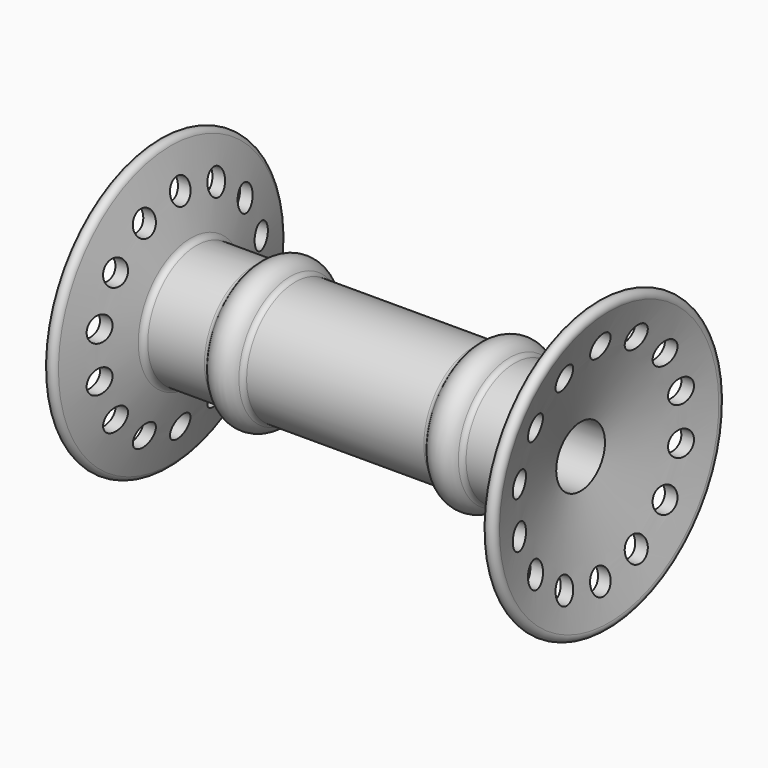
from build123d import *

# Parameters (mm, degrees)
F2_R     = 2
F3_DEPTH = 50


with BuildPart() as f1:
    # F0 (on Front) → F1 (revolve)
    with BuildSketch(Plane.XZ):
        with BuildLine():
            Line((-36.9318516526, 17.4823619098), (-32.2474668971, 0))
            Line((-32.2474668971, 0), (32.2474668971, 0))
            Line((32.2474668971, 0), (36.9318516526, 17.4823619098))
            ThreePointArc((36.9318516526, 17.4823619098), (36.2247448714, 18.7071067812), (35, 18))
            Line((35, 18), (31.7152593367, 5.7411809549))
            ThreePointArc((31.7152593367, 5.7411809549), (31.3580949394, 5.2066466597), (30.7493335104, 5))
            Line((30.7493335104, 5), (21.4641016151, 5))
            ThreePointArc((21.4641016151, 5), (20.9641016151, 5.1339745962), (20.5980762114, 5.5))
            ThreePointArc((20.5980762114, 5.5), (18, 7), (15.4019237886, 5.5))
            ThreePointArc((15.4019237886, 5.5), (15.0358983849, 5.1339745962), (14.5358983849, 5))
            Line((14.5358983849, 5), (0, 5))
            Line((0, 5), (-14.5358983849, 5))
            ThreePointArc((-14.5358983849, 5), (-15.0358983849, 5.1339745962), (-15.4019237886, 5.5))
            ThreePointArc((-15.4019237886, 5.5), (-18, 7), (-20.5980762114, 5.5))
            ThreePointArc((-20.5980762114, 5.5), (-20.9641016151, 5.1339745962), (-21.4641016151, 5))
            Line((-21.4641016151, 5), (-30.7493335104, 5))
            ThreePointArc((-30.7493335104, 5), (-31.3580949394, 5.2066466597), (-31.7152593367, 5.7411809549))
            Line((-31.7152593367, 5.7411809549), (-35, 18))
            ThreePointArc((-35, 18), (-36.2247448714, 18.7071067812), (-36.9318516526, 17.4823619098))
        make_face()
    revolve(axis=Axis((3.2910462469, 0, -5), (1, 0, 0)))

    # F2 (on Right) → F3 (cut, symmetric)
    with BuildSketch(Plane.YZ):
        with Locations((0, 12)):
            Circle(F2_R)
        with Locations((-7.376023565, 10.3164707543)):
            Circle(F2_R)
        with Locations((-13.291135202, 5.5993266316)):
            Circle(F2_R)
        with Locations((-16.5737745071, -1.2171441227)):
            Circle(F2_R)
        with Locations((-16.5737745071, -8.7828558773)):
            Circle(F2_R)
        with Locations((-13.291135202, -15.5993266316)):
            Circle(F2_R)
        with Locations((-7.376023565, -20.3164707543)):
            Circle(F2_R)
        with Locations((0, -22)):
            Circle(F2_R)
        with Locations((7.376023565, -20.3164707543)):
            Circle(F2_R)
        with Locations((13.291135202, -15.5993266316)):
            Circle(F2_R)
        with Locations((16.5737745071, -8.7828558773)):
            Circle(F2_R)
        with Locations((16.5737745071, -1.2171441227)):
            Circle(F2_R)
        with Locations((13.291135202, 5.5993266316)):
            Circle(F2_R)
        with Locations((7.376023565, 10.3164707543)):
            Circle(F2_R)
    extrude(amount=F3_DEPTH, both=True, mode=Mode.SUBTRACT)


solid = f1.part
